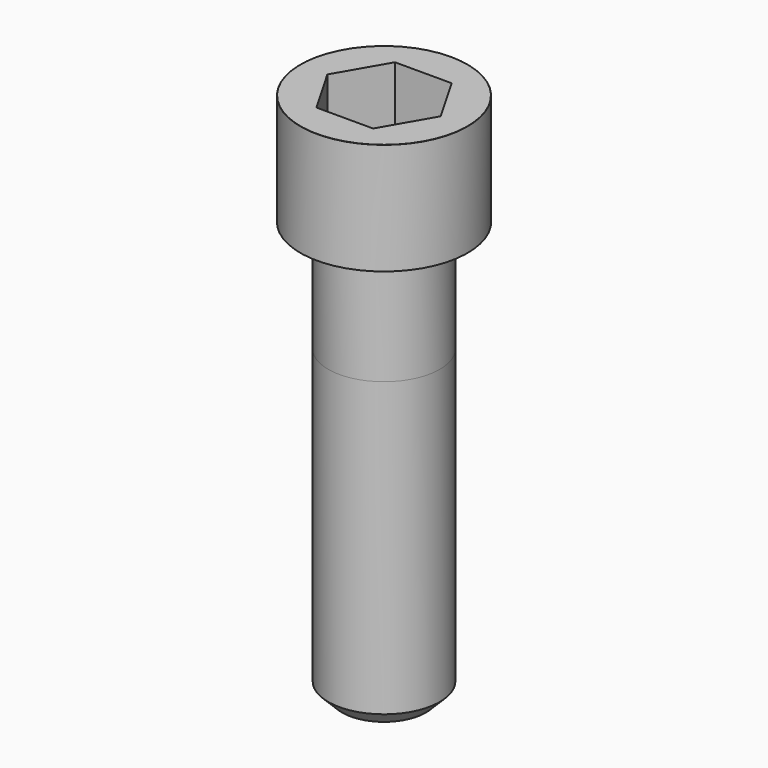
from build123d import *

# Parameters (mm, degrees)
POCKET_DEPTH = 14.08


with BuildPart() as part:
    # Sketch → Revolve (revolve)
    with BuildSketch(Plane.YZ):
        with BuildLine():
            Line((7.999, 0), (12, 0))
            Line((12, 0), (12, 15.97229))
            ThreePointArc((12, 15.97229), (11.991884, 15.991884), (11.97229, 16))
            Line((11.97229, 16), (0, 16))
            Line((0, -60), (0, 16))
            Line((6, -60), (0, -60))
            Line((8, -58), (6, -60))
            Line((8, -16), (8, -58))
            Line((7.999, 0), (8, -16))
        make_face()
    revolve(axis=Axis((0, 0, 0), (0, 0, 1)))

    # Sketch001 → Pocket (cut)
    with BuildSketch(Plane.XY.offset(16)):
        Polygon((8.129092, 0), (4.064546, 7.04), (-4.064546, 7.04), (-8.129092, 0), (-4.064546, -7.04), (4.064546, -7.04), align=None)
    extrude(amount=-POCKET_DEPTH, mode=Mode.SUBTRACT)


solid = part.part
